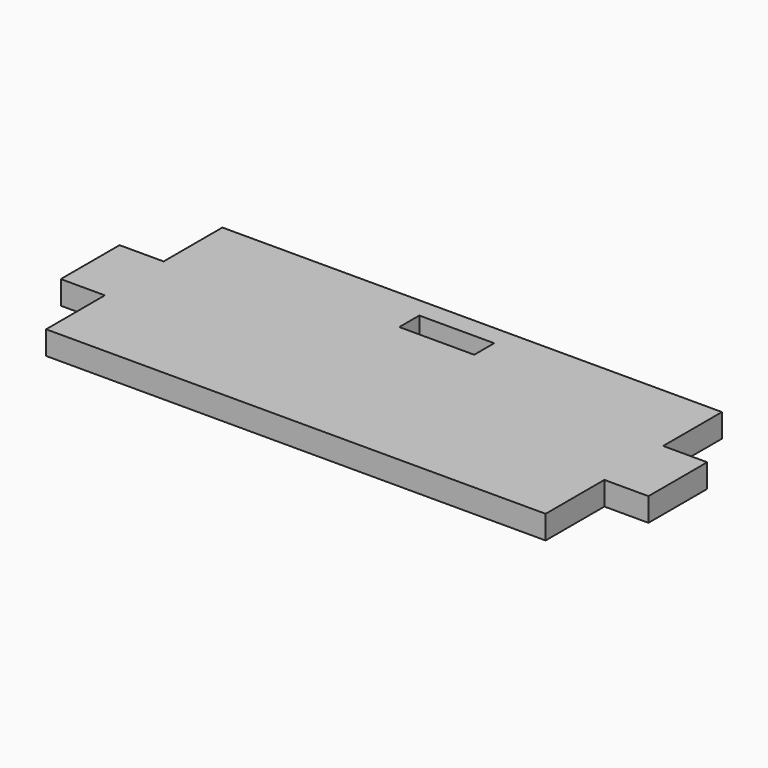
from build123d import *

# Parameters (mm, degrees)
F0_W     = 10.2
F0_H     = 3.4
F0_W_2   = 6
F0_H_2   = 10
F1_DEPTH = 3.2


with BuildPart() as f1:
    # F0 (on Top) → F1 (new body)
    with BuildSketch(Plane.XY):
        Polygon((38.018951, 10), (-29.981049, 10), (-29.981049, 0), (-29.981049, -10), (-29.981049, -20), (38.018951, -20), (38.018951, -10), (38.018951, 0), align=None)
        with Locations((4.118951, 5.552806)):
            Rectangle(F0_W, F0_H, mode=Mode.SUBTRACT)
        with Locations((-32.981049, -5)):
            Rectangle(F0_W_2, F0_H_2)
        with Locations((41.018951, -5)):
            Rectangle(F0_W_2, F0_H_2)
    extrude(amount=F1_DEPTH)


solid = f1.part
